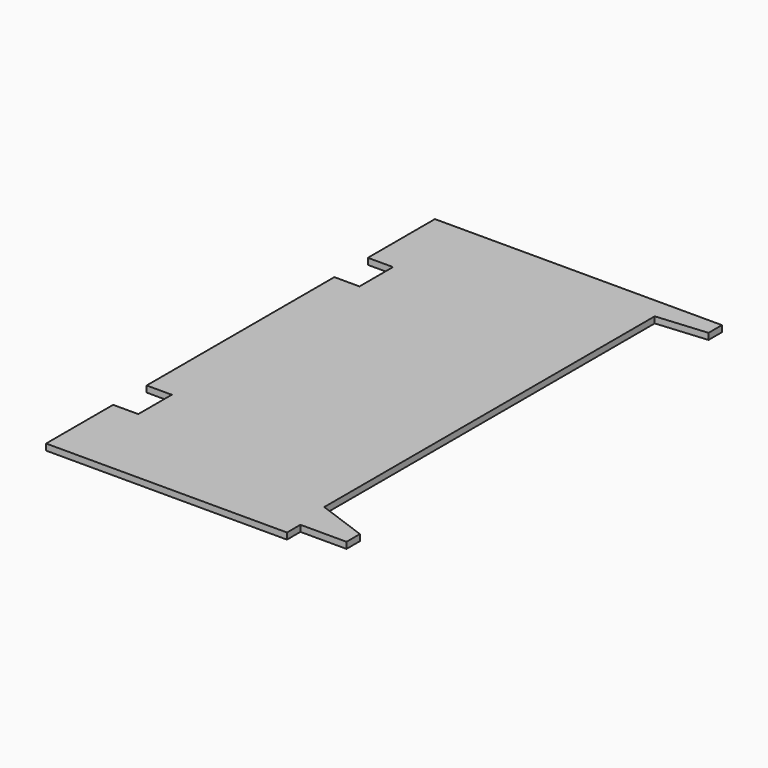
from build123d import *

# Parameters (mm, degrees)
F1_DEPTH = 15


with BuildPart() as f1:
    # F0 (on Top) → F1 (new body)
    with BuildSketch(Plane.XY):
        Polygon((0, 200), (0, 0), (575, 0), (575, 40), (685, 40), (685, 80), (565, 123.676428), (565, 1109.50136), (685, 1120), (685, 1160), (0, 1160), (0, 960), (60, 960), (60, 860), (0, 860), (0, 300), (60, 300), (60, 200), align=None)
    extrude(amount=F1_DEPTH)


solid = f1.part
